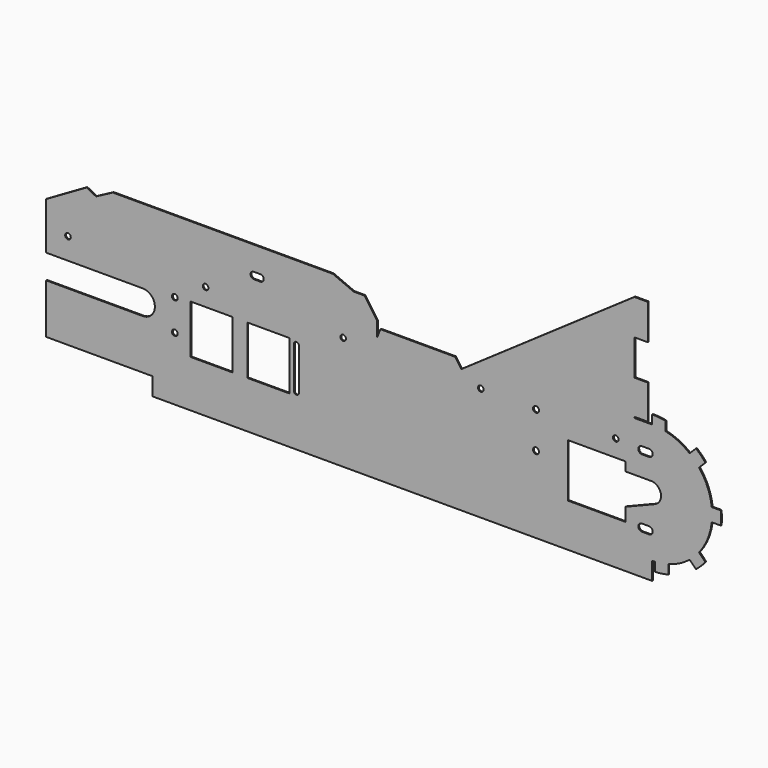
from build123d import *

# Parameters (mm, degrees)
F0_R     = 4.1275
F0_W     = 60.325
F0_H     = 69.85
F0_R_2   = 4.318
F0_R_3   = 4.0005
F0_W_2   = 19.05
F0_H_2   = 50.8
F0_W_3   = 714.375
F0_H_3   = 25.4
F1_DEPTH = 1.5748
F2_W     = 19.05
F2_H     = 1.5748
F3_DEPTH = 25.4


with BuildPart() as f1:
    # F0 (on Front) → F1 (new body)
    with BuildSketch(Plane.XZ):
        with BuildLine():
            Line((0, 71.12), (0, 0))
            Line((0, 0), (152.4, 0))
            Line((152.4, 0), (866.775, 0))
            ThreePointArc((866.775, 0), (868.892405, 0.026154), (871.008518, 0.1046))
            ThreePointArc((871.008518, 0.1046), (880.495682, 1.105153), (889.812929, 3.15364))
            ThreePointArc((889.812929, 3.15364), (905.833291, 9.414938), (920.281197, 18.748418))
            ThreePointArc((920.281197, 18.748418), (923.925, 21.829358), (927.391729, 25.108271))
            Line((927.391729, 25.108271), (876.016834, 76.483166))
            ThreePointArc((876.016834, 76.483166), (873.488274, 74.143986), (870.473354, 72.477963))
            Line((870.473354, 72.477963), (828.60841, 55.5625))
            Line((828.60841, 55.5625), (828.60841, 36.5125))
            Line((828.60841, 36.5125), (746.05841, 36.5125))
            Line((746.05841, 36.5125), (746.05841, 112.7125))
            Line((746.05841, 112.7125), (828.60841, 112.7125))
            Line((828.60841, 112.7125), (828.60841, 100.0125))
            Line((828.60841, 100.0125), (865.12091, 100.0125))
            ThreePointArc((865.12091, 100.0125), (871.124657, 98.689863), (876.016834, 94.966834))
            Line((876.016834, 94.966834), (927.391729, 146.341729))
            ThreePointArc((927.391729, 146.341729), (923.925, 149.620642), (920.281197, 152.701582))
            ThreePointArc((920.281197, 152.701582), (903.936518, 162.976519), (885.707042, 169.333333))
            ThreePointArc((885.707042, 169.333333), (876.3, 170.91919), (866.775, 171.45))
            Line((866.775, 171.45), (860.425, 171.45))
            Line((860.425, 171.45), (841.375, 171.45))
            Line((841.375, 171.45), (841.375, 222.25))
            Line((841.375, 222.25), (841.375, 273.05))
            Line((841.375, 273.05), (841.375, 323.85))
            Line((841.375, 323.85), (593.725, 152.4))
            Line((593.725, 152.4), (473.075, 152.4))
            Line((473.075, 152.4), (439.727616, 200.025))
            Line((439.727616, 200.025), (71.490397, 200.025))
            Line((71.490397, 200.025), (0, 158.75))
            Line((0, 158.75), (0, 106.045))
            Line((0, 106.045), (138.1125, 106.045))
            ThreePointArc((138.1125, 106.045), (155.575, 88.5825), (138.1125, 71.12))
            Line((138.1125, 71.12), (0, 71.12))
        make_face()
        with Locations((184.0865, 65.0875)):
            Circle(F0_R, mode=Mode.SUBTRACT)
        Polygon((206.375, 41.91), (206.375, 88.5825), (206.375, 111.76), (266.7, 111.76), (266.7, 41.91), align=None, mode=Mode.SUBTRACT)
        with BuildLine():
            ThreePointArc((27.305, 136.9695), (31.3055, 140.97), (35.306, 136.9695))
            ThreePointArc((35.306, 136.9695), (31.3055, 132.969), (27.305, 136.9695))
        make_face(mode=Mode.SUBTRACT)
        with Locations((184.0865, 109.8169)):
            Circle(F0_R, mode=Mode.SUBTRACT)
        with BuildLine():
            ThreePointArc((224.0788, 136.9695), (228.0793, 140.97), (232.0798, 136.9695))
            ThreePointArc((232.0798, 136.9695), (228.0793, 132.969), (224.0788, 136.9695))
        make_face(mode=Mode.SUBTRACT)
        with Locations((317.9445, 76.835)):
            Rectangle(F0_W, F0_H, mode=Mode.SUBTRACT)
        with BuildLine():
            ThreePointArc((361.599438, 47.166166), (358.077275, 43.497828), (354.457, 47.069375))
            Line((354.457, 47.069375), (354.457, 106.600625))
            ThreePointArc((354.457, 106.600625), (357.980475, 110.172172), (361.599438, 106.697416))
            ThreePointArc((361.599438, 106.697416), (361.60075, 106.600625), (361.599438, 106.503834))
            Line((361.599438, 106.503834), (361.599438, 47.166166))
        make_face(mode=Mode.SUBTRACT)
        with BuildLine():
            ThreePointArc((428.8536, 136.9695), (424.8531, 132.969), (420.8526, 136.9695))
            ThreePointArc((420.8526, 136.9695), (424.8531, 140.97), (428.8536, 136.9695))
        make_face(mode=Mode.SUBTRACT)
        with BuildLine():
            ThreePointArc((852.03991, 31.8008), (846.89641, 36.9443), (852.03991, 42.0878))
            Line((852.03991, 42.0878), (862.32691, 42.0878))
            ThreePointArc((862.32691, 42.0878), (865.963914, 40.581304), (867.47041, 36.9443))
            ThreePointArc((867.47041, 36.9443), (865.963914, 33.307296), (862.32691, 31.8008))
            Line((862.32691, 31.8008), (852.03991, 31.8008))
        make_face(mode=Mode.SUBTRACT)
        with Locations((700.59241, 84.5185)):
            Circle(F0_R_2, mode=Mode.SUBTRACT)
        with BuildLine():
            ThreePointArc((625.6274, 136.9695), (621.6269, 132.969), (617.6264, 136.9695))
            ThreePointArc((617.6264, 136.9695), (621.6269, 140.97), (625.6274, 136.9695))
        make_face(mode=Mode.SUBTRACT)
        with Locations((700.59241, 136.5885)):
            Circle(F0_R_2, mode=Mode.SUBTRACT)
        with Locations((814.70191, 137.033)):
            Circle(F0_R_3, mode=Mode.SUBTRACT)
        with BuildLine():
            ThreePointArc((852.03991, 129.2225), (846.89641, 134.366), (852.03991, 139.5095))
            Line((852.03991, 139.5095), (862.32691, 139.5095))
            ThreePointArc((862.32691, 139.5095), (865.963914, 138.003004), (867.47041, 134.366))
            ThreePointArc((867.47041, 134.366), (865.963914, 130.728996), (862.32691, 129.2225))
            Line((862.32691, 129.2225), (852.03991, 129.2225))
        make_face(mode=Mode.SUBTRACT)
        with BuildLine():
            ThreePointArc((306.451, 178.562), (309.773695, 177.185695), (311.15, 173.863))
            ThreePointArc((311.15, 173.863), (309.773695, 170.540305), (306.451, 169.164))
            Line((306.451, 169.164), (297.053, 169.164))
            ThreePointArc((297.053, 169.164), (292.354, 173.863), (297.053, 178.562))
            Line((297.053, 178.562), (306.451, 178.562))
        make_face(mode=Mode.SUBTRACT)
        with BuildLine():
            ThreePointArc((876.016834, 94.966834), (878.533743, 90.647253), (879.40841, 85.725))
            Line((879.40841, 85.725), (952.5, 85.725))
            ThreePointArc((952.5, 85.725), (952.367195, 90.49489), (951.96919, 95.25))
            ThreePointArc((951.96919, 95.25), (945.974573, 118.530537), (933.751582, 139.231197))
            ThreePointArc((933.751582, 139.231197), (930.670642, 142.875), (927.391729, 146.341729))
            Line((927.391729, 146.341729), (876.016834, 94.966834))
        make_face()
        with BuildLine():
            Line((876.016834, 76.483166), (927.391729, 25.108271))
            ThreePointArc((927.391729, 25.108271), (930.670642, 28.575), (933.751582, 32.218803))
            ThreePointArc((933.751582, 32.218803), (945.974573, 52.919463), (951.96919, 76.2))
            ThreePointArc((951.96919, 76.2), (952.367195, 80.95511), (952.5, 85.725))
            Line((952.5, 85.725), (879.40841, 85.725))
            ThreePointArc((879.40841, 85.725), (878.533743, 80.802747), (876.016834, 76.483166))
        make_face()
        with BuildLine():
            ThreePointArc((866.775, 171.45), (876.3, 170.91919), (885.707042, 169.333333))
            Line((885.707042, 169.333333), (885.735586, 182.306452))
            ThreePointArc((885.735586, 182.306452), (876.3, 183.688029), (866.775, 184.15))
            Line((866.775, 184.15), (866.775, 171.45))
        make_face()
        with Locations((850.9, 196.85)):
            Rectangle(F0_W_2, F0_H_2)
        with Locations((850.9, 298.45)):
            Rectangle(F0_W_2, F0_H_2)
        with BuildLine():
            ThreePointArc((920.281197, 152.701582), (923.925, 149.620642), (927.391729, 146.341729))
            Line((927.391729, 146.341729), (936.371985, 155.321985))
            ThreePointArc((936.371985, 155.321985), (932.918717, 158.611826), (929.31013, 161.730514))
            Line((929.31013, 161.730514), (920.281197, 152.701582))
        make_face()
        with BuildLine():
            Line((936.371985, 155.321985), (927.391729, 146.341729))
            ThreePointArc((927.391729, 146.341729), (930.670642, 142.875), (933.751582, 139.231197))
            Line((933.751582, 139.231197), (942.780514, 148.26013))
            ThreePointArc((942.780514, 148.26013), (939.661826, 151.868717), (936.371985, 155.321985))
        make_face()
        with BuildLine():
            ThreePointArc((951.96919, 95.25), (952.367195, 90.49489), (952.5, 85.725))
            Line((952.5, 85.725), (965.2, 85.725))
            Line((965.2, 85.725), (964.738029, 95.25))
            Line((964.738029, 95.25), (951.96919, 95.25))
        make_face()
        with BuildLine():
            ThreePointArc((952.5, 85.725), (952.367195, 80.95511), (951.96919, 76.2))
            Line((951.96919, 76.2), (964.738029, 76.2))
            ThreePointArc((964.738029, 76.2), (965.084439, 80.956902), (965.2, 85.725))
            Line((965.2, 85.725), (952.5, 85.725))
        make_face()
        with BuildLine():
            ThreePointArc((933.751582, 32.218803), (930.670642, 28.575), (927.391729, 25.108271))
            Line((927.391729, 25.108271), (936.371985, 16.128015))
            ThreePointArc((936.371985, 16.128015), (939.661826, 19.581283), (942.780514, 23.18987))
            Line((942.780514, 23.18987), (933.751582, 32.218803))
        make_face()
        with BuildLine():
            ThreePointArc((927.391729, 25.108271), (923.925, 21.829358), (920.281197, 18.748418))
            Line((920.281197, 18.748418), (929.31013, 9.719486))
            ThreePointArc((929.31013, 9.719486), (932.918717, 12.838174), (936.371985, 16.128015))
            Line((936.371985, 16.128015), (927.391729, 25.108271))
        make_face()
        with BuildLine():
            ThreePointArc((889.812929, 3.15364), (880.495682, 1.105153), (871.008518, 0.1046))
            Line((871.008518, 0.1046), (871.008518, -12.60891))
            ThreePointArc((871.008518, -12.60891), (880.504832, -11.737671), (889.872261, -9.951524))
            Line((889.872261, -9.951524), (889.812929, 3.15364))
        make_face()
        with Locations((509.5875, -12.7)):
            Rectangle(F0_W_3, F0_H_3)
        Polygon((478.149444, 165.1), (473.075, 152.4), (593.725, 152.4), (584.932692, 165.1), align=None)
        Polygon((455.231453, 200.025), (439.727616, 200.025), (473.075, 152.4), (473.075, 174.541774), align=None)
        Polygon((95.536456, 212.725), (71.490397, 200.025), (439.727616, 200.025), (410.032392, 212.725), align=None)
        Polygon((0, 173.414697), (0, 158.75), (71.490397, 200.025), (57.889698, 206.837329), align=None)
    extrude(amount=F1_DEPTH)

    # F2 (on face) → F3 (cut)
    with BuildSketch(Plane.XZ.offset(1.5748)):
        with Locations((850.9, 172.2374)):
            Rectangle(F2_W, F2_H)
    extrude(amount=-F3_DEPTH, mode=Mode.SUBTRACT)


solid = f1.part
